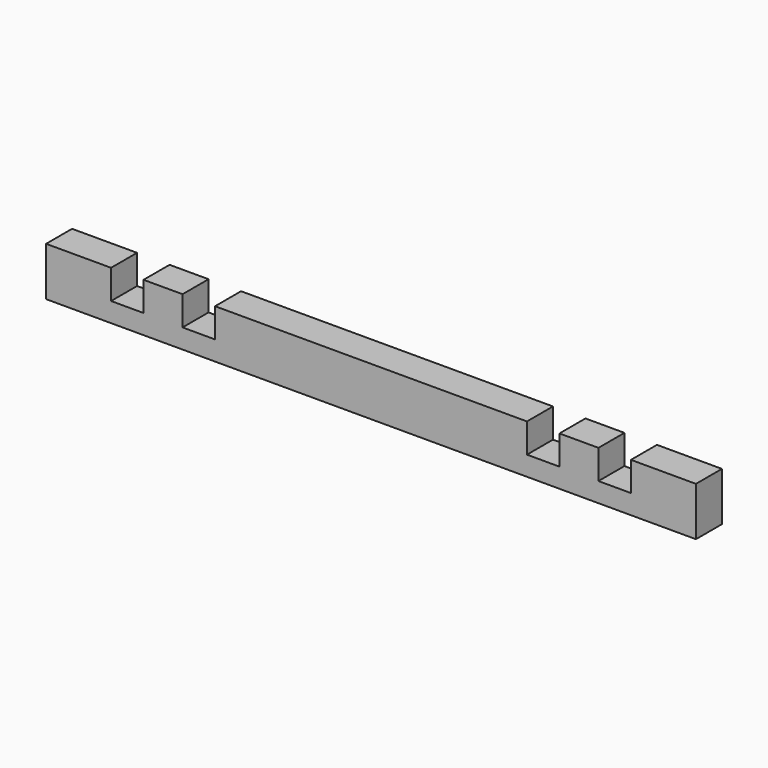
from build123d import *

# Parameters (mm, degrees)
F1_DEPTH = 25.4


with BuildPart() as f1:
    # F0 (on Front) → F1 (new body)
    with BuildSketch(Plane.XZ):
        Polygon((0, 38.1), (0, 0), (508, 0), (508, 38.1), (457.2, 38.1), (457.2, 15.24), (431.8, 15.24), (431.8, 38.1), (401.32, 38.1), (401.32, 15.24), (375.92, 15.24), (375.92, 38.1), (132.08, 38.1), (132.08, 15.24), (106.68, 15.24), (106.68, 38.1), (76.2, 38.1), (76.2, 15.24), (50.8, 15.24), (50.8, 38.1), align=None)
    extrude(amount=-F1_DEPTH)


solid = f1.part
